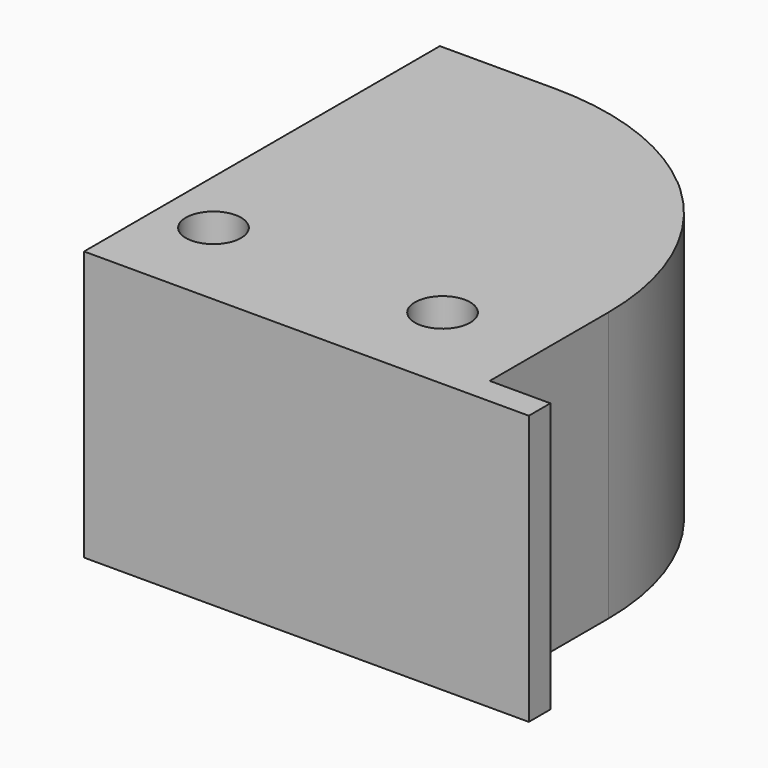
from build123d import *

# Parameters (mm, degrees)
F0_R     = 2.05
F1_DEPTH = 20


with BuildPart() as f1:
    # F0 (on Top) → F1 (new body)
    with BuildSketch(Plane.XY):
        with BuildLine():
            ThreePointArc((22.096672, 27.667328), (21.796017, 27.950866), (21.479311, 28.216356))
            ThreePointArc((21.479311, 28.216356), (21.790827, 27.94503), (22.096672, 27.667328))
        make_face()
        with BuildLine():
            Line((0, 15.597965), (0, 0))
            Line((0, 0), (33, 0))
            Line((33, 0), (33, 2))
            Line((33, 2), (28.5, 2))
            Line((28.5, 2), (28.5, 13))
            ThreePointArc((28.5, 13), (26.829395, 21.00208), (22.096672, 27.667328))
            ThreePointArc((22.096672, 27.667328), (23.661878, 20.039762), (17.266561, 15.597965))
            ThreePointArc((17.266561, 15.597965), (17.097, 15.595932), (16.927439, 15.597965))
            Line((16.927439, 15.597965), (0, 15.597965))
        make_face()
        with Locations((4, 7)):
            Circle(F0_R, mode=Mode.SUBTRACT)
        with BuildLine():
            ThreePointArc((18.95, 7), (21, 9.05), (23.05, 7))
            ThreePointArc((23.05, 7), (21, 4.95), (18.95, 7))
        make_face(mode=Mode.SUBTRACT)
        with BuildLine():
            Line((0, 33), (0, 15.597965))
            Line((0, 15.597965), (16.927439, 15.597965))
            Line((16.927439, 15.597965), (17.266561, 15.597965))
            ThreePointArc((17.266561, 15.597965), (23.661878, 20.039762), (22.096672, 27.667328))
            ThreePointArc((22.096672, 27.667328), (21.790827, 27.94503), (21.479311, 28.216356))
            ThreePointArc((21.479311, 28.216356), (15.41639, 31.766021), (8.5, 33))
            Line((8.5, 33), (0, 33))
        make_face()
    extrude(amount=F1_DEPTH)


solid = f1.part
